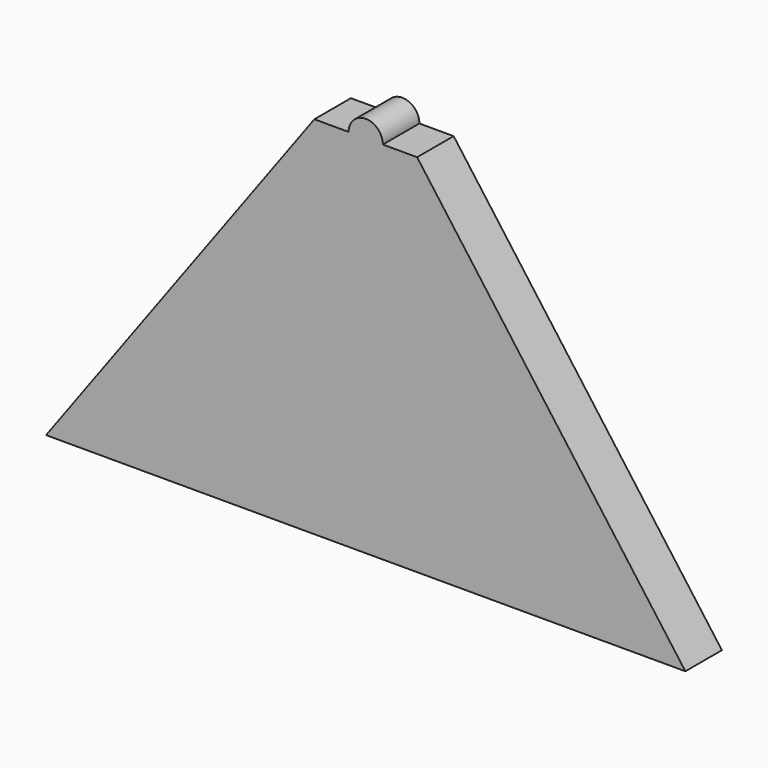
from build123d import *

# Parameters (mm, degrees)
F1_DEPTH = 50.8


with BuildPart() as f1:
    # F0 (on Front) → F1 (new body)
    with BuildSketch(Plane.XZ):
        with BuildLine():
            Line((19.05, 63.5000025991), (0, 63.5000025991))
            Line((0, 63.5000025991), (-19.05, 63.5000025991))
            ThreePointArc((-19.05, 63.5000025991), (0, 44.4500025991), (19.05, 63.5000025991))
        make_face()
        with BuildLine():
            Line((-19.05, 63.5000025991), (0, 63.5000025991))
            Line((0, 63.5000025991), (19.05, 63.5000025991))
            ThreePointArc((19.05, 63.5000025991), (0, 82.5500025991), (-19.05, 63.5000025991))
        make_face()
        with BuildLine():
            ThreePointArc((19.05, 63.5000025991), (0, 44.4500025991), (-19.05, 63.5000025991))
            Line((-19.05, 63.5000025991), (-57.15, 63.5000025991))
            Line((-57.15, 63.5000025991), (-355.6, -342.8999974009))
            Line((-355.6, -342.8999974009), (0, -342.8999974009))
            Line((0, -342.8999974009), (57.15, -342.8999974009))
            Line((57.15, -342.8999974009), (57.15, 63.5000025991))
            Line((57.15, 63.5000025991), (19.05, 63.5000025991))
        make_face()
        Polygon((355.6, -342.8999974009), (57.15, 63.5000025991), (57.15, -342.8999974009), align=None)
    extrude(amount=F1_DEPTH)


solid = f1.part
